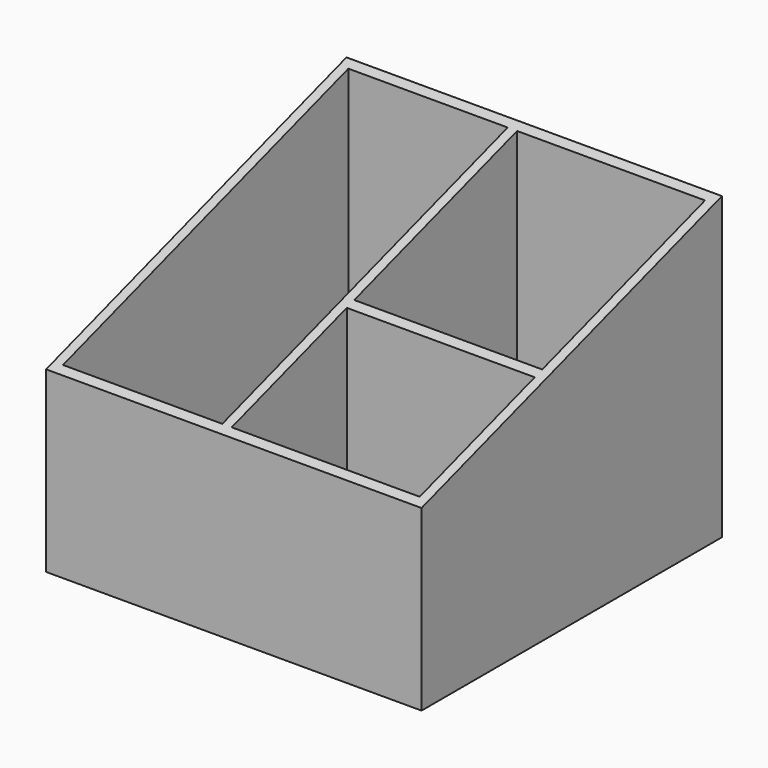
from build123d import *

# Parameters (mm, degrees)
F0_W     = 100
F0_H     = 100
F1_DEPTH = 80
F2_W     = 42.437702
F2_H     = 95
F2_W_2   = 50.062298
F2_H_2   = 54.196703
F2_H_3   = 38.303297
F3_DEPTH = 77.5
F5_DEPTH = 100


with BuildPart() as f1:
    # F0 (on Top) → F1 (new body)
    with BuildSketch(Plane.XY):
        with Locations((2.562298, 6.696703)):
            Rectangle(F0_W, F0_H)
    extrude(amount=F1_DEPTH)

    # F2 (on face) → F3 (cut)
    with BuildSketch(Plane.XY.offset(80)):
        with Locations((-23.718851, 6.696703)):
            Rectangle(F2_W, F2_H)
        with Locations((25.031149, 27.098351)):
            Rectangle(F2_W_2, F2_H_2)
        with Locations((25.031149, -21.651649)):
            Rectangle(F2_W_2, F2_H_3)
    extrude(amount=-F3_DEPTH, mode=Mode.SUBTRACT)

    # F4 (on face) → F5 (cut)
    with BuildSketch(Plane(origin=(-47.437702, 0, 0), x_dir=(0, -1, 0), z_dir=(-1, 0, 0))):
        Polygon((43.303297, 80), (-56.696703, 80), (43.303297, 47.50803), align=None)
    extrude(amount=-F5_DEPTH, mode=Mode.SUBTRACT)


solid = f1.part
